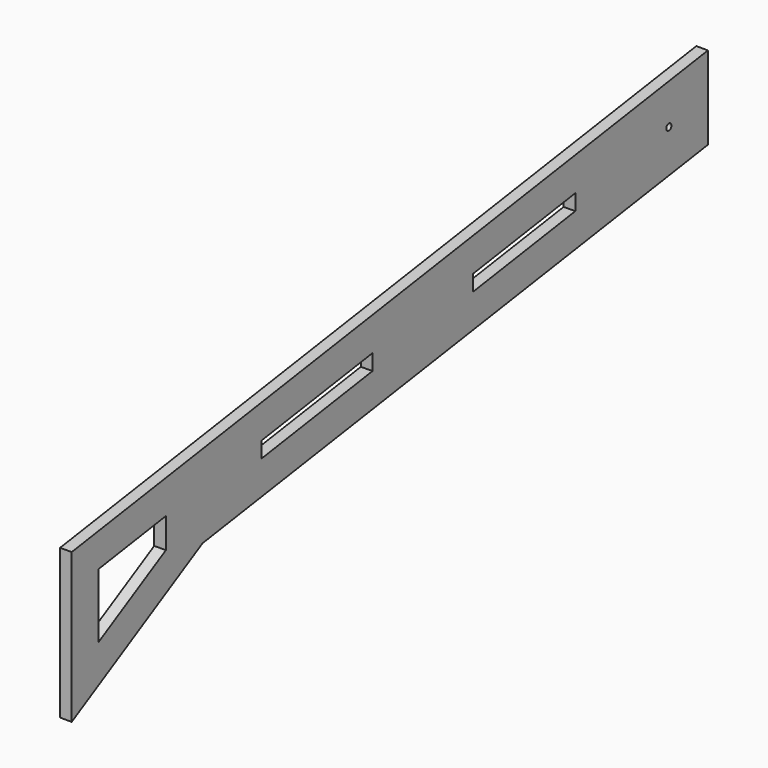
from build123d import *

# Parameters (mm, degrees)
F0_R     = 1.936716
F1_DEPTH = 7


with BuildPart() as f1:
    # F0 (on Right) → F1 (new body)
    with BuildSketch(Plane.YZ):
        Polygon((147.111759, 249.174401), (-331.58275, 177.918279), (-331.58275, 87.918279), (-233.121438, 142.574748), (147.111759, 199.174401), align=None)
        Polygon((-311.58275, 121.895213), (-311.58275, 160.675016), (-260.739267, 168.243328), (-260.739267, 150.118738), align=None, mode=Mode.SUBTRACT)
        Polygon((-105.261611, 181.8277), (-188.680325, 169.410399), (-188.680325, 178.96967), (-105.261611, 191.386972), align=None, mode=Mode.SUBTRACT)
        Polygon((-29.693466, 193.076405), (-29.693466, 202.635676), (47.31185, 214.098311), (47.31185, 204.539039), align=None, mode=Mode.SUBTRACT)
        with Locations((117.710918, 220.521659)):
            Circle(F0_R, mode=Mode.SUBTRACT)
    extrude(amount=F1_DEPTH)


solid = f1.part
